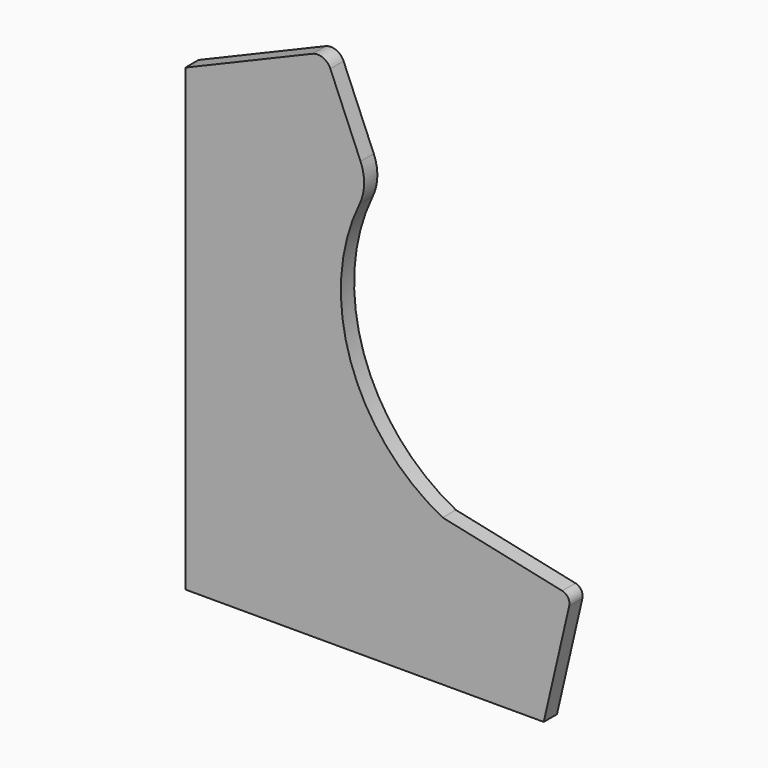
from build123d import *

# Parameters (mm, degrees)
F1_DEPTH = 18


with BuildPart() as f1:
    # F0 (on Front) → F1 (new body)
    with BuildSketch(Plane.XZ):
        with BuildLine():
            Line((0, 500), (0, 0))
            Line((0, 0), (390, 0))
            Line((390, 0), (417.715809, 120.10184))
            ThreePointArc((417.715809, 120.10184), (416.41, 127.716852), (410.067188, 132.12846))
            Line((410.067188, 132.12846), (280, 160))
            ThreePointArc((280, 160), (179.794974, 277.193689), (189.612331, 431.073602))
            ThreePointArc((189.612331, 431.073602), (194.55811, 451.520543), (190.655976, 472.192056))
            Line((190.655976, 472.192056), (157.820855, 550.175469))
            ThreePointArc((157.820855, 550.175469), (149.655778, 558.246), (138.175469, 558.179145))
            Line((138.175469, 558.179145), (0, 500))
        make_face()
    extrude(amount=F1_DEPTH)


solid = f1.part
